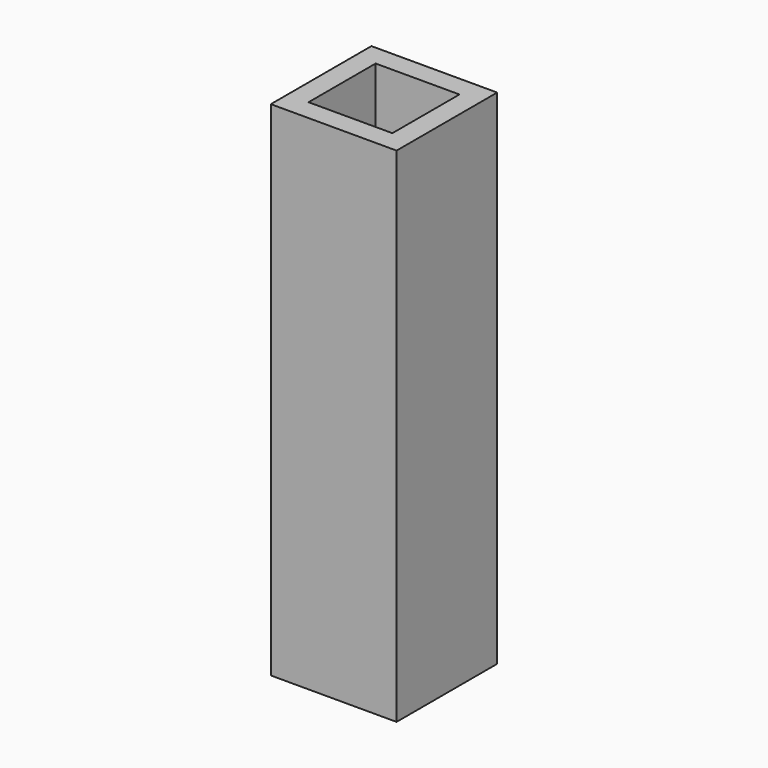
from build123d import *

# Parameters (mm, degrees)
F0_W     = 19.05
F0_H     = 76.2
F1_DEPTH = 19.05
F2_W     = 12.7
F2_H     = 12.7
F3_DEPTH = 76.201
F4_R     = 1.5875
F5_DEPTH = 3.175


with BuildPart() as f1:
    # F0 (on Front) → F1 (new body)
    with BuildSketch(Plane.XZ):
        with Locations((-85.803381, 38.1)):
            Rectangle(F0_W, F0_H)
    extrude(amount=F1_DEPTH)

    # F2 (on face) → F3 (cut, through all)
    with BuildSketch(Plane.XY.offset(76.2)):
        with Locations((-85.803381, -9.525)):
            Rectangle(F2_W, F2_H)
    extrude(amount=-F3_DEPTH, mode=Mode.SUBTRACT)

    # F4 (on face) → F5 (cut)
    with BuildSketch(Plane(origin=(-95.328381, 0, 0), x_dir=(0, -1, 0), z_dir=(-1, 0, 0))):
        with Locations((9.525, 57.15)):
            Circle(F4_R)
        with Locations((9.525, 19.05)):
            Circle(F4_R)
    extrude(amount=-F5_DEPTH, mode=Mode.SUBTRACT)


solid = f1.part
